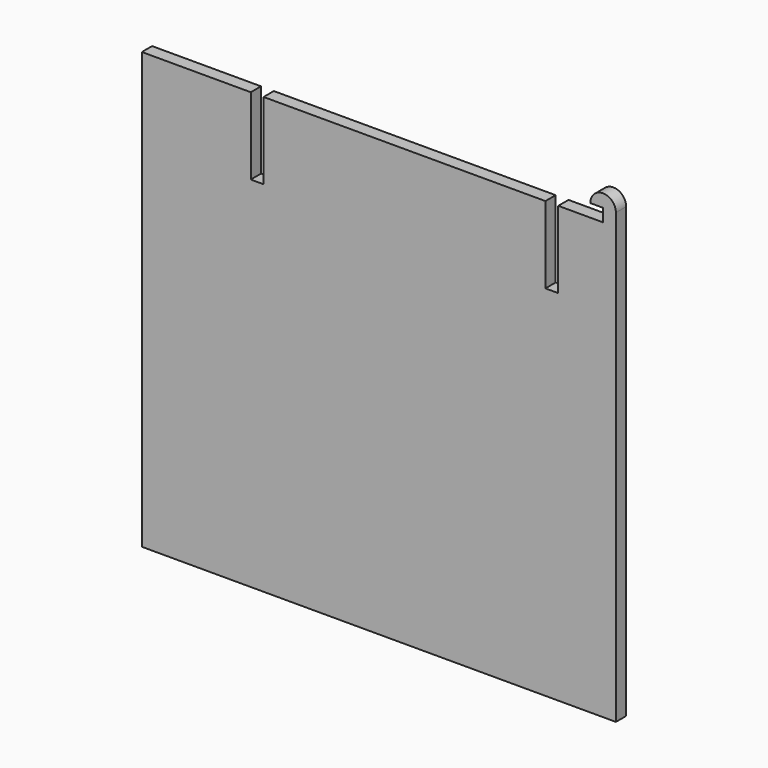
from build123d import *

# Parameters (mm, degrees)
F0_W     = 25.4
F0_H     = 25.4
F1_DEPTH = 12.7


with BuildPart() as f1:
    # F0 (on Front) → F1 (new body, symmetric)
    with BuildSketch(Plane.XZ):
        with BuildLine():
            Line((444.5, 457.2), (469.9, 457.2))
            ThreePointArc((469.9, 457.2), (444.5, 482.6), (419.1, 457.2))
            Line((419.1, 457.2), (444.5, 457.2))
        make_face()
        with Locations((457.2, 444.5)):
            Rectangle(F0_W, F0_H)
        Polygon((469.9, -431.8), (469.9, 431.8), (444.5, 431.8), (355.6, 431.8), (355.6, 279.4), (330.2, 279.4), (330.2, 431.8), (-228.6, 431.8), (-228.6, 279.4), (-254, 279.4), (-254, 431.8), (-469.9, 431.8), (-469.9, -431.8), align=None)
    extrude(amount=F1_DEPTH, both=True)


solid = f1.part
